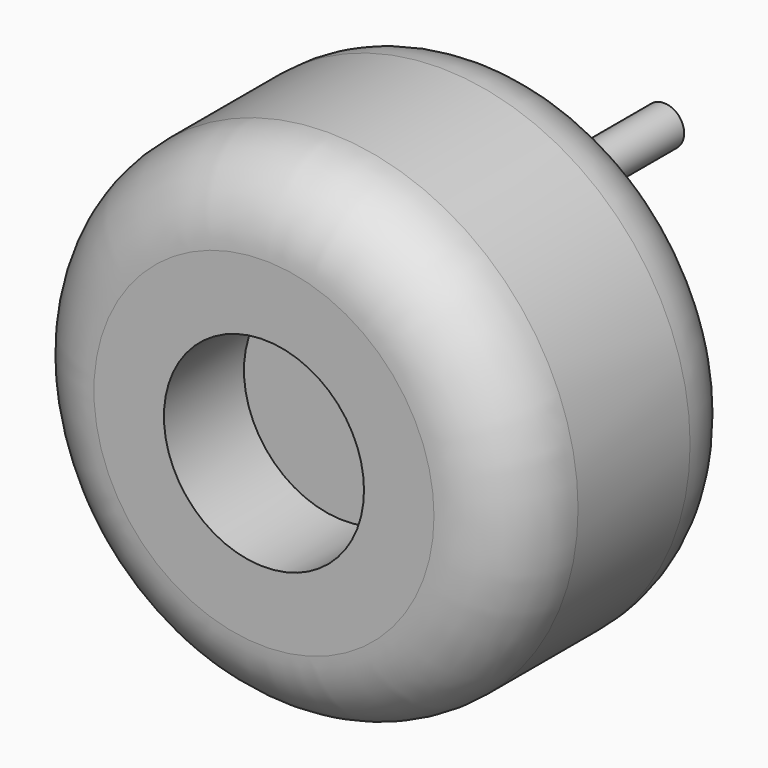
from build123d import *

# Parameters (mm, degrees)
F0_R     = 31.75
F1_DEPTH = 38.1
F2_R     = 10.16
F3_R     = 12.7
F4_DEPTH = 12.7
F5_R     = 2.54
F6_DEPTH = 25.4


with BuildPart() as f1:
    # F0 (on Front) → F1 (new body)
    with BuildSketch(Plane.XZ):
        Circle(F0_R)
    extrude(amount=F1_DEPTH)

    # F2
    f2_edges = [f1.edges().sort_by_distance(p)[0] for p in [
        (-31.75, -38.1, 0),
        (-31.75, 0, 0),
    ]]
    fillet(f2_edges, radius=F2_R)

    # F3 (on face) → F4 (cut)
    with BuildSketch(Plane.XZ.offset(38.1)):
        Circle(F3_R)
    extrude(amount=-F4_DEPTH, mode=Mode.SUBTRACT)

    # F5 (on face) → F6 (join)
    with BuildSketch(Plane(origin=(0, 0, 0), x_dir=(-1, 0, 0), z_dir=(0, 1, 0))):
        with Locations((0, 10.795)):
            Circle(F5_R)
    extrude(amount=F6_DEPTH)


solid = f1.part
